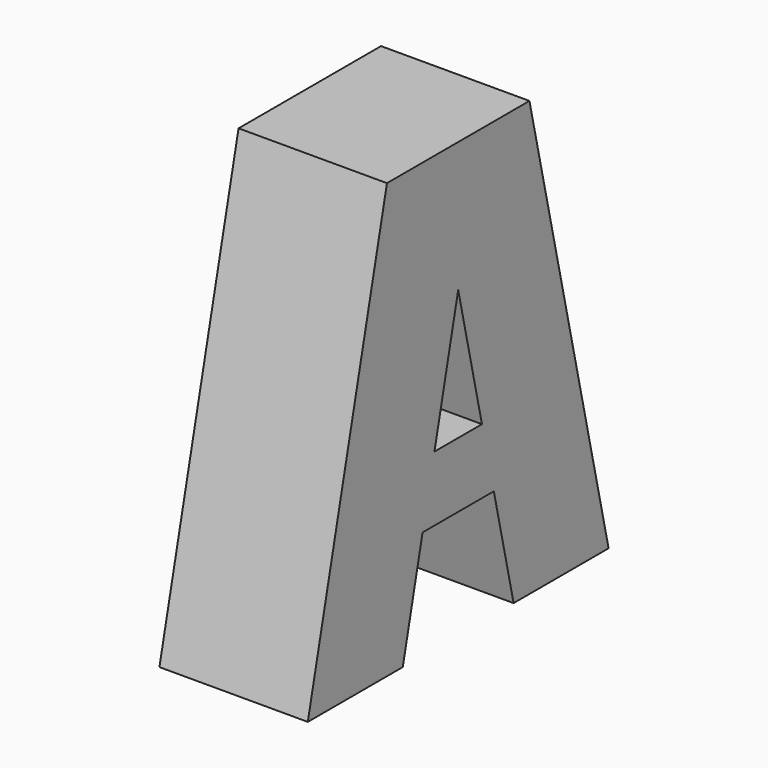
from build123d import *

# Parameters (mm, degrees)
F1_DEPTH = 10


with BuildPart() as f1:
    # F0 (on Right) → F1 (new body)
    with BuildSketch(Plane.YZ):
        Polygon((6.666667, 29.249881), (0, 0), (8, 0), (9.666667, 7.31247), (10.666667, 11.699953), (12.666667, 20.474917), (12.666667, 29.249881), align=None)
        Polygon((10.666667, 11.699953), (9.666667, 7.31247), (12.666667, 7.31247), (12.666667, 11.699953), align=None)
    extrude(amount=F1_DEPTH)

    # F2: F1 across face


with BuildPart() as f1_1:
    add(f1.part)
    add(f1.part.mirror(Plane(origin=(5, 12.666667, 9.506211), x_dir=(-1, 0, 0), z_dir=(0, 1, 0))))


solid = f1_1.part
